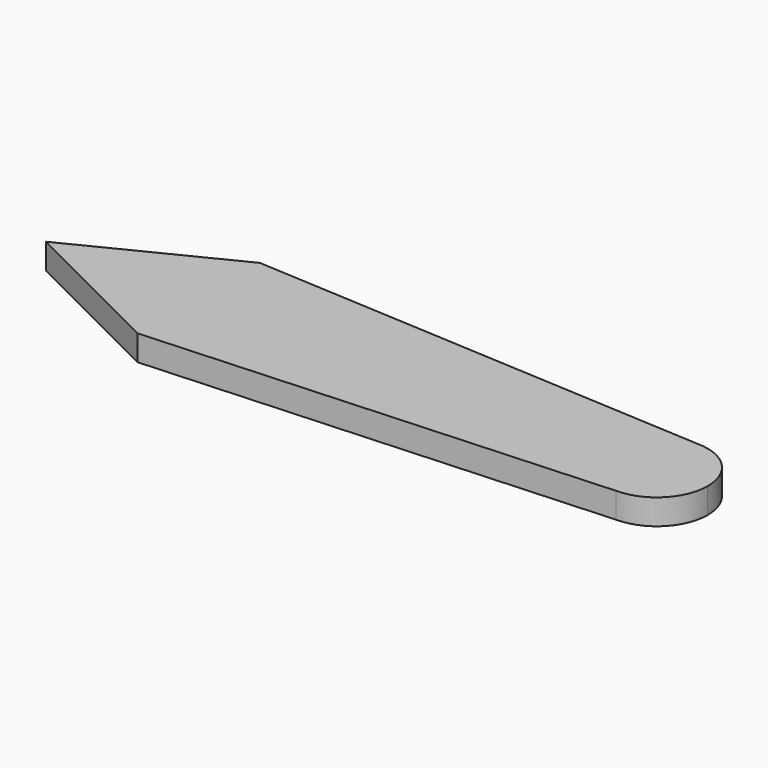
from build123d import *

# Parameters (mm, degrees)
F1_DEPTH = 1.5875


with BuildPart() as f1:
    # F0 (on Top) → F1 (new body)
    with BuildSketch(Plane.XY):
        with BuildLine():
            ThreePointArc((10.583333, 0), (11.513269, 2.245064), (13.758333, 3.175))
            Line((13.758333, 3.175), (-14.816667, 4.7625))
            Line((-14.816667, 4.7625), (-24.341667, 0))
            Line((-24.341667, 0), (10.583333, 0))
        make_face()
        with BuildLine():
            ThreePointArc((13.758333, -3.175), (16.003397, -2.245064), (16.933333, 0))
            ThreePointArc((16.933333, 0), (16.003397, 2.245064), (13.758333, 3.175))
            ThreePointArc((13.758333, 3.175), (11.513269, 2.245064), (10.583333, 0))
            ThreePointArc((10.583333, 0), (11.513269, -2.245064), (13.758333, -3.175))
        make_face()
        with BuildLine():
            Line((-14.816667, -4.7625), (13.758333, -3.175))
            ThreePointArc((13.758333, -3.175), (11.513269, -2.245064), (10.583333, 0))
            Line((10.583333, 0), (-24.341667, 0))
            Line((-24.341667, 0), (-14.816667, -4.7625))
        make_face()
    extrude(amount=F1_DEPTH)


solid = f1.part
